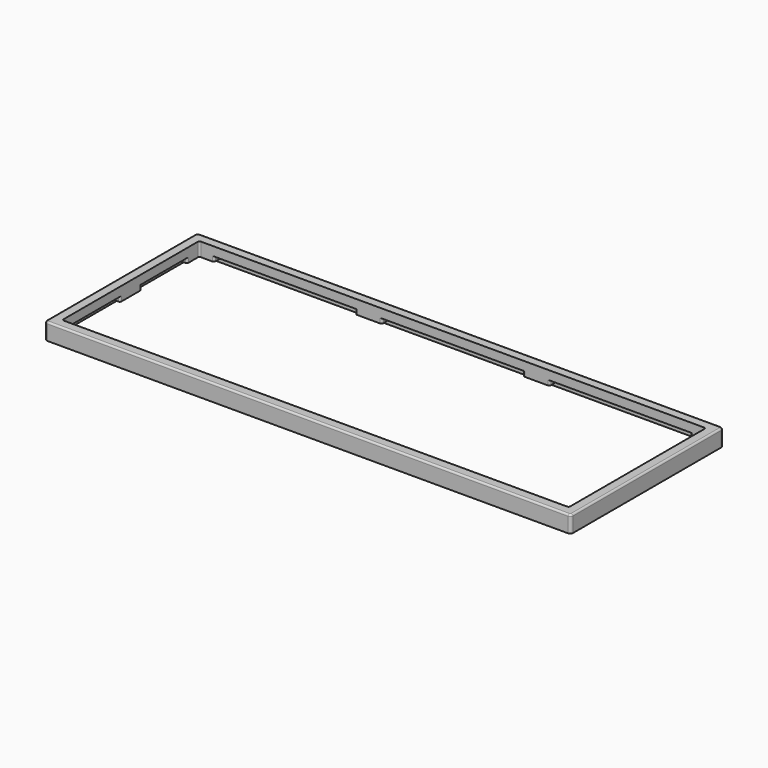
from build123d import *

# Parameters (mm, degrees)
SKETCH001_W     = 298
SKETCH001_H     = 108
SKETCH001_W_2   = 287
SKETCH001_H_2   = 97
PAD_DEPTH       = 9.5
SKETCH002_W     = 295
SKETCH002_H     = 105
POCKET_DEPTH    = 1.7
SKETCH003_W     = 80
SKETCH003_H     = 4
POCKET001_DEPTH = 2.8
SKETCH004_W     = 4
SKETCH004_H     = 32.5
POCKET002_DEPTH = 2.8
FILLET_R        = 1.5
FILLET001_R     = 1
FILLET002_R     = 1
FILLET003_R     = 1
FILLET004_R     = 1


with BuildPart() as part:
    # Sketch001 → Pad (new body)
    with BuildSketch(Plane.XY):
        Rectangle(SKETCH001_W, SKETCH001_H)
        Rectangle(SKETCH001_W_2, SKETCH001_H_2, mode=Mode.SUBTRACT)
    extrude(amount=PAD_DEPTH)

    # Sketch002 (on Face9 of Pad) → Pocket (cut)
    with BuildSketch(Plane(origin=(0, 0, 0), x_dir=(1, 0, 0), z_dir=(0, 0, -1))):
        Rectangle(SKETCH002_W, SKETCH002_H)
    extrude(amount=-POCKET_DEPTH, mode=Mode.SUBTRACT)

    # Sketch003 (on Face15 of Pocket) → Pocket001 (cut)
    with BuildSketch(Plane(origin=(0, 0, 1.7), x_dir=(1, 0, 0), z_dir=(0, 0, -1))):
        with Locations((-95, 50.5)):
            Rectangle(SKETCH003_W, SKETCH003_H)
        with Locations((0, 50.5)):
            Rectangle(SKETCH003_W, SKETCH003_H)
        with Locations((95, 50.5)):
            Rectangle(SKETCH003_W, SKETCH003_H)
        with Locations((-95, -50.5)):
            Rectangle(SKETCH003_W, SKETCH003_H)
        with Locations((0, -50.5)):
            Rectangle(SKETCH003_W, SKETCH003_H)
        with Locations((95, -50.5)):
            Rectangle(SKETCH003_W, SKETCH003_H)
    extrude(amount=-POCKET001_DEPTH, mode=Mode.SUBTRACT)

    # Sketch004 (on Face15 of Pocket001) → Pocket002 (cut)
    with BuildSketch(Plane(origin=(0, 0, 1.7), x_dir=(1, 0, 0), z_dir=(0, 0, -1))):
        with Locations((145.5, 23.75)):
            Rectangle(SKETCH004_W, SKETCH004_H)
        with Locations((145.5, -23.75)):
            Rectangle(SKETCH004_W, SKETCH004_H)
        with Locations((-145.5, 23.75)):
            Rectangle(SKETCH004_W, SKETCH004_H)
        with Locations((-145.5, -23.75)):
            Rectangle(SKETCH004_W, SKETCH004_H)
    extrude(amount=-POCKET002_DEPTH, mode=Mode.SUBTRACT)

    # Fillet
    fillet_edges = [part.edges().sort_by_distance(p)[0] for p in [
        (149, -54, 4.75),
        (-149, -54, 4.75),
        (-149, 54, 4.75),
        (149, 54, 4.75),
    ]]
    fillet(fillet_edges, radius=FILLET_R)

    # Fillet001
    fillet001_edges = [part.edges().sort_by_distance(p)[0] for p in [
        (0, 54, 9.5),
    ]]
    fillet(fillet001_edges, radius=FILLET001_R)

    # Fillet002
    fillet002_edges = [part.edges().sort_by_distance(p)[0] for p in [
        (-147.5, 52.5, 0.85),
        (-147.5, -52.5, 0.85),
        (147.5, -52.5, 0.85),
        (147.5, 52.5, 0.85),
    ]]
    fillet(fillet002_edges, radius=FILLET002_R)

    # Fillet003
    fillet003_edges = [part.edges().sort_by_distance(p)[0] for p in [
        (143.5, 40, 3.1),
        (135, 48.5, 3.1),
        (55, 48.5, 3.1),
        (40, 48.5, 3.1),
        (-55, 48.5, 3.1),
        (-40, 48.5, 3.1),
        (-135, 48.5, 3.1),
        (-143.5, 40, 3.1),
        (-143.5, -7.5, 3.1),
        (143.5, -7.5, 3.1),
        (143.5, 7.5, 3.1),
        (143.5, -40, 3.1),
        (135, -48.5, 3.1),
        (40, -48.5, 3.1),
        (-55, -48.5, 3.1),
        (-143.5, 7.5, 3.1),
        (-143.5, -40, 3.1),
        (-135, -48.5, 3.1),
        (-40, -48.5, 3.1),
        (55, -48.5, 3.1),
    ]]
    fillet(fillet003_edges, radius=FILLET003_R)

    # Fillet004
    fillet004_edges = [part.edges().sort_by_distance(p)[0] for p in [
        (-143.5, -48.5, 5.6),
        (143.5, 48.5, 5.6),
        (143.5, -48.5, 5.6),
        (-143.5, 48.5, 5.6),
    ]]
    fillet(fillet004_edges, radius=FILLET004_R)


solid = part.part
